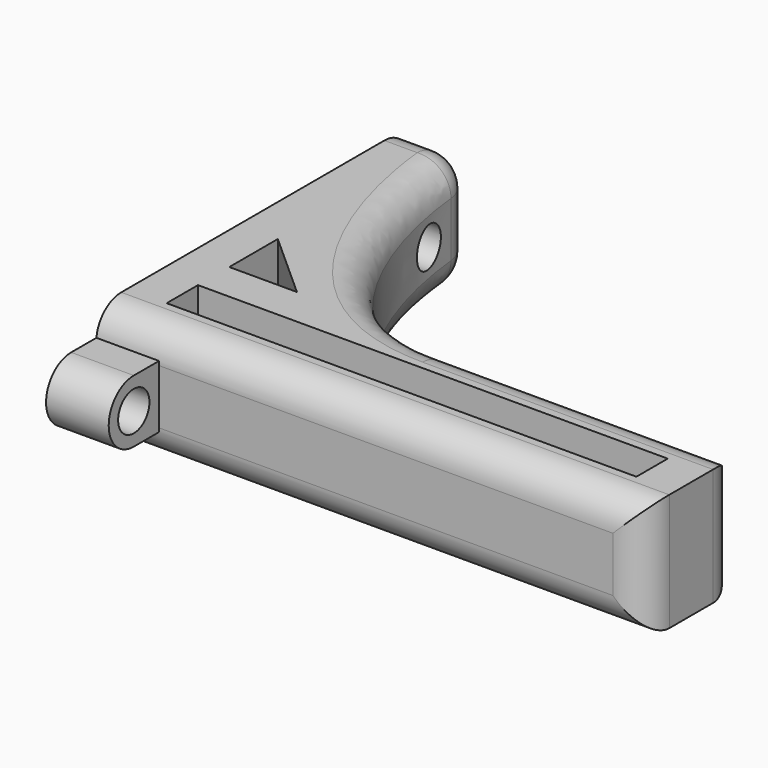
from build123d import *

# Parameters (mm, degrees)
F0_W      = 76.2
F0_H      = 6.35
F1_DEPTH  = 19.05
F2_DEPTH  = 6.35
F4_START  = -5.08
F3_R      = 3.175
F3_R_2    = 1.905
F4_DEPTH  = 6.8182960521
F6_DEPTH  = 10.16
F7_R      = 3.175
F7_R_2    = 1.905
F8_DEPTH  = 5.08
F9_DEPTH  = 10.1610001
F10_DEPTH = 88.9010001
F11_R     = 5.08


with BuildPart() as f1:
    # F0 (on Top) → F1 (new body)
    with BuildSketch(Plane.XY):
        with BuildLine():
            Line((-6.35, -6.35), (82.55, -6.35))
            Line((82.55, -6.35), (82.55, 12.7))
            Line((82.55, 12.7), (35.4121256149, 12.7))
            add(Edge.make_bspline(
                [(3.81, 57.15), (3.81, 44.45), (10.9720126255, 12.7), (35.4121256149, 12.7)],
                knots=[0, 0, 0, 0, 54.538947949, 54.538947949, 54.538947949, 54.538947949], degree=3))
            Line((3.81, 57.15), (-6.35, 57.15))
            Line((-6.35, 57.15), (-6.35, 12.7))
            Line((-6.35, 12.7), (-6.35, -6.35))
        make_face()
        Polygon((0, 12.7), (0, 22.5350875407), (10.9720126255, 12.7), align=None, mode=Mode.SUBTRACT)
        with Locations((38.1, 3.175)):
            Rectangle(F0_W, F0_H, mode=Mode.SUBTRACT)
    extrude(amount=F1_DEPTH)

    # F0 (on Top) → F2 (join)
    with BuildSketch(Plane.XY):
        with Locations((38.1, 3.175)):
            Rectangle(F0_W, F0_H)
    extrude(amount=F2_DEPTH)

    # F3 (on face) → F4 (cut)
    with BuildSketch(Plane(origin=(-6.35, 0, 0), x_dir=(0, -1, 0), z_dir=(-1, 0, 0)).offset(F4_START)):
        with Locations((-46.99, 9.525)):
            Circle(F3_R)
        with Locations((-46.99, 9.525)):
            Circle(F3_R_2, mode=Mode.SUBTRACT)
    extrude(amount=-F4_DEPTH, mode=Mode.SUBTRACT)

    # F5 (on face) → F6 (join)
    with BuildSketch(Plane(origin=(-6.35, 0, 0), x_dir=(0, -1, 0), z_dir=(-1, 0, 0))):
        with BuildLine():
            Line((11.43, 14.605), (6.35, 14.605))
            Line((6.35, 14.605), (6.35, 4.445))
            Line((6.35, 4.445), (11.43, 4.445))
            ThreePointArc((11.43, 4.445), (16.51, 9.525), (11.43, 14.605))
        make_face()
    extrude(amount=-F6_DEPTH)

    # F7 (on face) → F8 (cut)
    with BuildSketch(Plane.YZ.offset(3.81)):
        with Locations((-11.43, 9.525)):
            Circle(F7_R)
        with Locations((-11.43, 9.525)):
            Circle(F7_R_2, mode=Mode.SUBTRACT)
    extrude(amount=-F8_DEPTH, mode=Mode.SUBTRACT)

    # F7 (on face) → F9 (cut, through all)
    with BuildSketch(Plane.YZ.offset(3.81)):
        with Locations((-11.43, 9.525)):
            Circle(F7_R_2)
    extrude(amount=-F9_DEPTH, mode=Mode.SUBTRACT)

    # F3 (on face) → F10 (cut, through all)
    with BuildSketch(Plane(origin=(-6.35, 0, 0), x_dir=(0, -1, 0), z_dir=(-1, 0, 0))):
        with Locations((-46.99, 9.525)):
            Circle(F3_R_2)
    extrude(amount=-F10_DEPTH, mode=Mode.SUBTRACT)

    # F11
    f11_edges = [f1.edges().sort_by_distance(p)[0] for p in [
        (58.981063, 12.7, 0),
        (58.981063, 12.7, 19.05),
        (38.1, -6.35, 19.05),
        (38.1, -6.35, 0),
        (82.55, -6.35, 9.525),
        (82.55, 12.7, 9.525),
        (3.81, 57.15, 9.525),
        (-1.27, 57.15, 19.05),
        (-1.27, 57.15, 0),
    ]]
    fillet(f11_edges, radius=F11_R)


solid = f1.part
